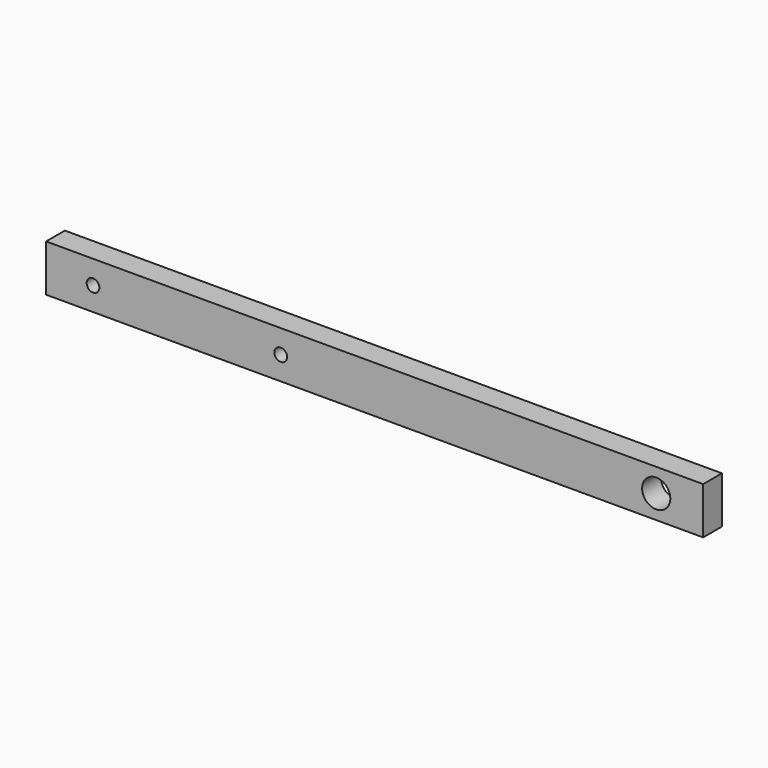
from build123d import *

# Parameters (mm, degrees)
F0_R     = 3.81
F1_DEPTH = 25.4
F0_W     = 177.8
F0_H     = 12.7
F0_R_2   = 1.27
F2_DEPTH = 6.35
F3_D     = 3.429
F4_D     = 7.62


with BuildPart() as f1:
    # F0 (on Front) → F1 (new body)
    with BuildSketch(Plane.XZ):
        with Locations((76.2, 0)):
            Circle(F0_R)
    extrude(amount=F1_DEPTH)

    # F0 (on Front) → F2 (join)
    with BuildSketch(Plane.XZ):
        Rectangle(F0_W, F0_H)
        with Locations((-76.2, 0)):
            Circle(F0_R_2, mode=Mode.SUBTRACT)
        with Locations((-25.4, 0)):
            Circle(F0_R_2, mode=Mode.SUBTRACT)
        with Locations((76.2, 0)):
            Circle(F0_R, mode=Mode.SUBTRACT)
        with Locations((-25.4, 0)):
            Circle(F0_R_2)
        with Locations((-76.2, 0)):
            Circle(F0_R_2)
    extrude(amount=F2_DEPTH)

    # F3 (through all)
    with Locations(Plane(origin=(0, 0, 0), x_dir=(1, 0, 0), z_dir=(0, 1, 0))):
        with Locations((-25.4, 0), (-76.2, 0)):
            Hole(F3_D / 2)

    # F4 (through all)
    with Locations(Plane(origin=(0, 0, 0), x_dir=(1, 0, 0), z_dir=(0, 1, 0))):
        with Locations((76.2, 0)):
            Hole(F4_D / 2)


solid = f1.part
